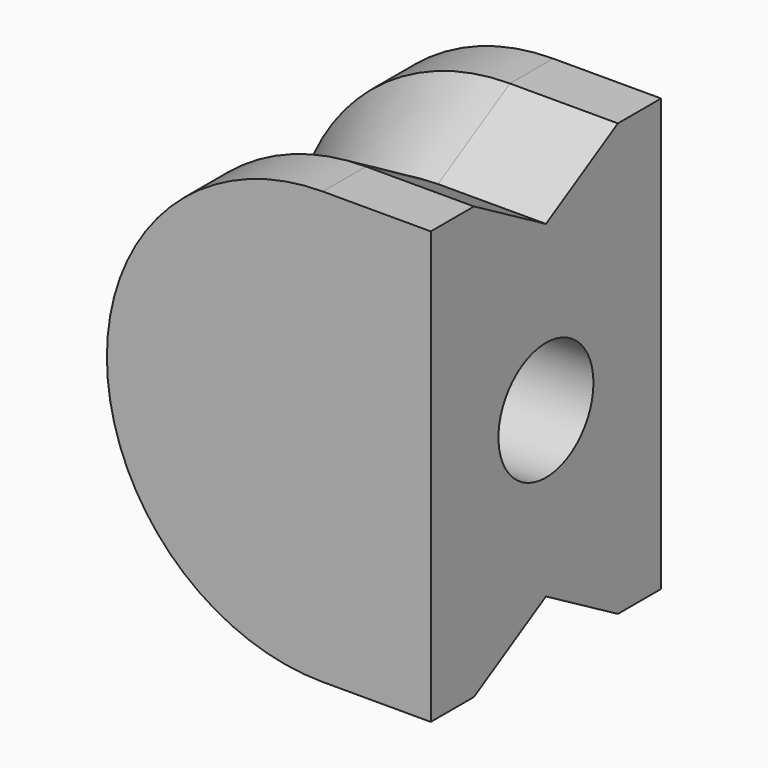
from build123d import *

# Parameters (mm, degrees)
REVOLUTION002_ANGLE     = 180
SKETCH015_R             = 1.65
POCKET007_DEPTH         = 7
PAD006_DEPTH            = 3
SKETCH022_R             = 1.65
POCKET012_DEPTH         = 6
BODY004_PLACEMENT_ANGLE = 180


with BuildPart() as part:
    # Sketch014 → Revolution002 (revolve)
    with BuildSketch(Plane.YZ):
        Polygon((-4, 0), (4, 0), (4, 6), (2.5, 6), (0, 4.556624), (-2.5, 6), (-4, 6), align=None)
    revolve(axis=Axis((0, 0, 0), (0, 1, 0)), revolution_arc=REVOLUTION002_ANGLE)

    # Sketch015 → Pocket007 (cut)
    with BuildSketch(Plane(origin=(-5, 0, 0), x_dir=(0, 1, 0), z_dir=(-1, 0, 0))):
        Circle(SKETCH015_R)
    extrude(amount=-POCKET007_DEPTH, mode=Mode.SUBTRACT)

    # Revolution002 Face7 → Pad006 (add)
    with BuildSketch(Plane(origin=(0, 0, 0), x_dir=(0, 1, 0), z_dir=(-1, 0, 0))):
        Polygon((4, -6), (4, 6), (2.5, 6), (0, 4.556624), (-2.5, 6), (-4, 6), (-4, -6), (-2.5, -6), (0, -4.556624), (2.5, -6), align=None)
    extrude(amount=PAD006_DEPTH)

    # Sketch022 (on Face5 of Pad006) → Pocket012 (cut)
    with BuildSketch(Plane(origin=(-3, 0, 0), x_dir=(0, 1, 0), z_dir=(-1, 0, 0))):
        Circle(SKETCH022_R)
    extrude(amount=-POCKET012_DEPTH, mode=Mode.SUBTRACT)


with BuildPart() as part_1:
    # Body004 placement: moved
    add(part.part.moved(Location((11, 0, 19))).rotate(Axis((11, 0, 19), (0, 1, 0)), BODY004_PLACEMENT_ANGLE))


solid = part_1.part
